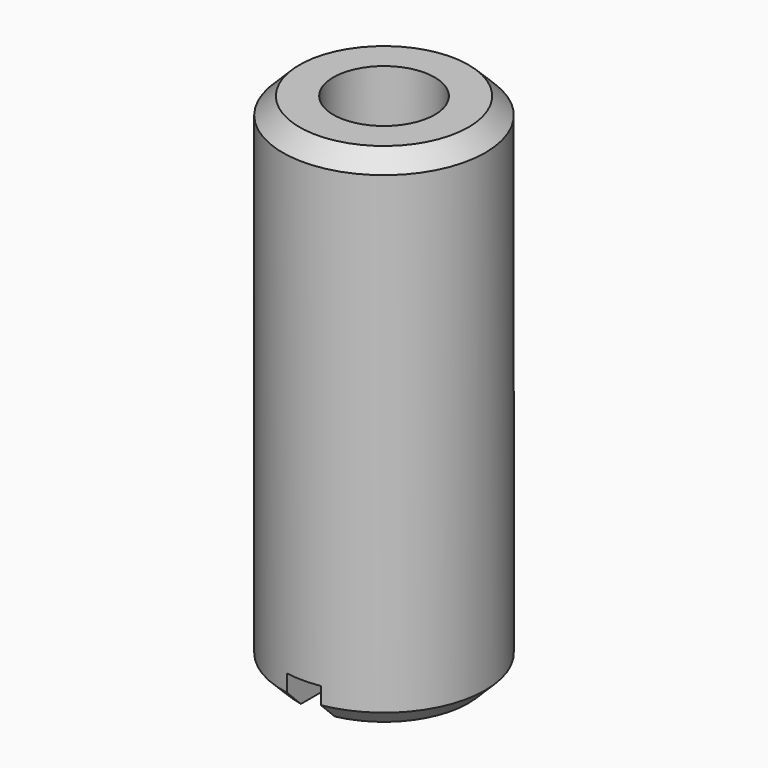
from build123d import *

# Parameters (mm, degrees)
F0_R     = 3
F0_R_2   = 1.5
F1_DEPTH = 15
F2_DEPTH = 8
F3_SIZE  = 0.5
F4_W     = 1
F4_H     = 2
F5_DEPTH = 12.5


with BuildPart() as f1:
    # F0 (on Top) → F1 (new body)
    with BuildSketch(Plane.XY):
        Circle(F0_R)
        Circle(F0_R_2, mode=Mode.SUBTRACT)
    extrude(amount=F1_DEPTH)

    # F0 (on Top) → F2 (join)
    with BuildSketch(Plane.XY):
        Circle(F0_R_2)
    extrude(amount=F2_DEPTH)

    # F3
    f3_edges = [f1.edges().sort_by_distance(p)[0] for p in [
        (-3, 0, 0),
        (-3, 0, 15),
    ]]
    chamfer(f3_edges, length=F3_SIZE)

    # F4 (on Front) → F5 (cut, symmetric)
    with BuildSketch(Plane.XZ):
        Rectangle(F4_W, F4_H)
    extrude(amount=F5_DEPTH, both=True, mode=Mode.SUBTRACT)


solid = f1.part
